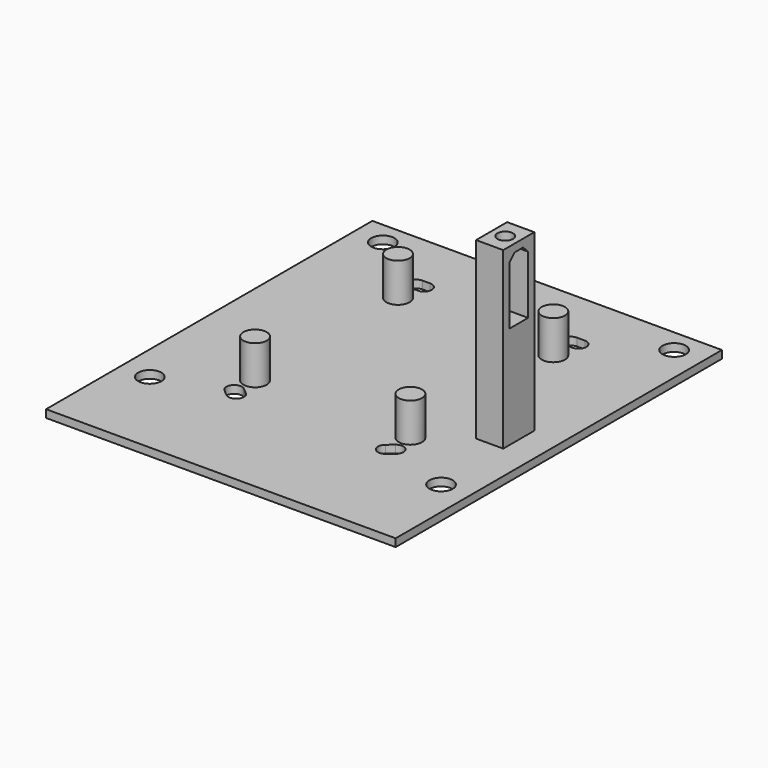
from build123d import *

# Parameters (mm, degrees)
SKETCH001_W     = 45
SKETCH001_H     = 105
SKETCH001_R     = 3
PAD_DEPTH       = 2
SKETCH_R        = 3
PAD001_DEPTH    = 10
SKETCH004_W     = 7
SKETCH004_H     = 10
PAD003_DEPTH    = 45
POCKET001_DEPTH = 82.501
SKETCH006_R     = 2
POCKET002_DEPTH = 5


with BuildPart() as part:
    # Sketch001 → Pad (new body)
    with BuildSketch(Plane.XY.offset(10)):
        with Locations((-22.5, -6.5)):
            Rectangle(SKETCH001_W, SKETCH001_H)
        with Locations((-37.5, 40)):
            Circle(SKETCH001_R, mode=Mode.SUBTRACT)
        with Locations((-37.5, -35)):
            Circle(SKETCH001_R, mode=Mode.SUBTRACT)
        with BuildLine():
            ThreePointArc((-20.9, 32), (-22.9, 30), (-20.9, 28))
            Line((-20.9, 28), (-18.9, 28))
            ThreePointArc((-18.9, 28), (-16.9, 30), (-18.9, 32))
            Line((-20.9, 32), (-18.9, 32))
        make_face(mode=Mode.SUBTRACT)
        with BuildLine():
            ThreePointArc((-19.514425, -27.18234), (-22.332089, -27.428853), (-22.085575, -30.246517))
            Line((-22.085575, -30.246517), (-20.553491, -31.532089))
            ThreePointArc((-20.553491, -31.532089), (-17.735828, -31.285577), (-17.982336, -28.467915))
            Line((-19.514425, -27.18234), (-17.982336, -28.467915))
        make_face(mode=Mode.SUBTRACT)
    pad = extrude(amount=PAD_DEPTH)

    # Sketch (on Face16 of Pad) → Pad001 (join)
    with BuildSketch(Plane.XY.offset(12)):
        with Locations((-20, -23)):
            Circle(SKETCH_R)
        with Locations((-20, 23)):
            Circle(SKETCH_R)
    pad001 = extrude(amount=PAD001_DEPTH)

    # Mirrored: Pad across Sketch001 V_Axis
    add(pad.mirror(Plane(origin=(0, 0, 10), x_dir=(0, 0, 1), z_dir=(1, 0, 0))))

    # Mirrored001: Pad001 across Sketch V_Axis
    add(pad001.mirror(Plane(origin=(0, 0, 12), x_dir=(0, 0, 1), z_dir=(1, 0, 0))))

    # Sketch004 → Pad003 (join)
    with BuildSketch(Plane.XY.offset(12)):
        with Locations((34, -10)):
            Rectangle(SKETCH004_W, SKETCH004_H)
    extrude(amount=PAD003_DEPTH)

    # Sketch005 (on Face36 of Pad003) → Pocket001 (cut, through all)
    with BuildSketch(Plane(origin=(37.5, 0, 10), x_dir=(0, 1, 0), z_dir=(1, 0, 0))):
        Polygon((-7, 28.39), (-13, 28.39), (-13, 43.39), (-11.4, 45), (-8.6, 45), (-7, 43.39), align=None)
    extrude(amount=-POCKET001_DEPTH, mode=Mode.SUBTRACT)

    # Sketch006 (on Face42 of Pocket001) → Pocket002 (cut)
    with BuildSketch(Plane.XY.offset(57)):
        with Locations((34, -10)):
            Circle(SKETCH006_R)
    extrude(amount=-POCKET002_DEPTH, mode=Mode.SUBTRACT)


solid = part.part
